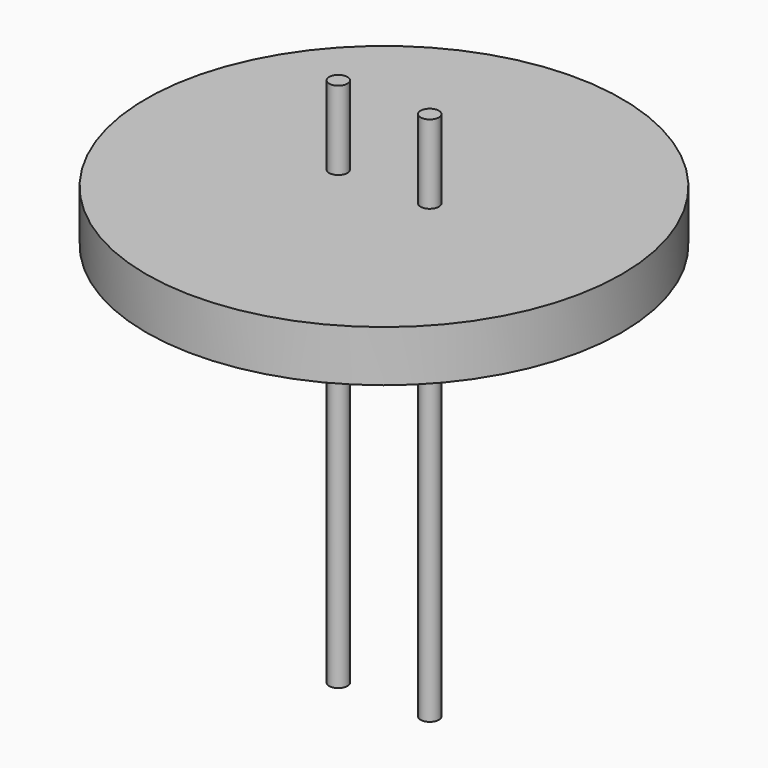
from build123d import *

# Parameters (mm, degrees)
CYLINDER002_R     = 0.5
CYLINDER002_DEPTH = 29
CYLINDER003_R     = 0.5
CYLINDER003_DEPTH = 29
CYLINDER005_R     = 0.5
CYLINDER005_DEPTH = 29
CYLINDER004_R     = 0.5
CYLINDER004_DEPTH = 29
CYLINDER001_R     = 10
CYLINDER001_DEPTH = 3.7
CYLINDER_R        = 13
CYLINDER_DEPTH    = 2.8


with BuildPart() as cylinder002:
    # Cylinder002 → Cylinder002 (new body)
    with BuildSketch(Plane(origin=(2.5, 0, -21), x_dir=(1, 0, 0), z_dir=(0, 0, 1))):
        Circle(CYLINDER002_R)
    extrude(amount=CYLINDER002_DEPTH)


with BuildPart() as cylinder003:
    # Cylinder003 → Cylinder003 (new body)
    with BuildSketch(Plane(origin=(-2.5, 0, -21), x_dir=(1, 0, 0), z_dir=(0, 0, 1))):
        Circle(CYLINDER003_R)
    extrude(amount=CYLINDER003_DEPTH)


with BuildPart() as cylinder005:
    # Cylinder005 → Cylinder005 (new body)
    with BuildSketch(Plane(origin=(-2.5, 0, -21), x_dir=(1, 0, 0), z_dir=(0, 0, 1))):
        Circle(CYLINDER005_R)
    extrude(amount=CYLINDER005_DEPTH)


with BuildPart() as posts001:
    # Cylinder004 → Cylinder004 (new body)
    with BuildSketch(Plane(origin=(2.5, 0, -21), x_dir=(1, 0, 0), z_dir=(0, 0, 1))):
        Circle(CYLINDER004_R)
    extrude(amount=CYLINDER004_DEPTH)

    # Compound001: union Cylinder005
    add(cylinder005.part)


with BuildPart() as cylinder001:
    # Cylinder001 → Cylinder001 (new body)
    with BuildSketch(Plane.XY):
        Circle(CYLINDER001_R)
    extrude(amount=CYLINDER001_DEPTH)


with BuildPart() as ceramicsdisk:
    # Cylinder → Cylinder (new body)
    with BuildSketch(Plane.XY.offset(0.9)):
        Circle(CYLINDER_R)
    extrude(amount=CYLINDER_DEPTH)

    # Fusion: union Cylinder001
    add(cylinder001.part)

    # Cut: cut Posts001
    add(posts001.part, mode=Mode.SUBTRACT)


solid = Compound([cylinder002.part, cylinder003.part, ceramicsdisk.part])
